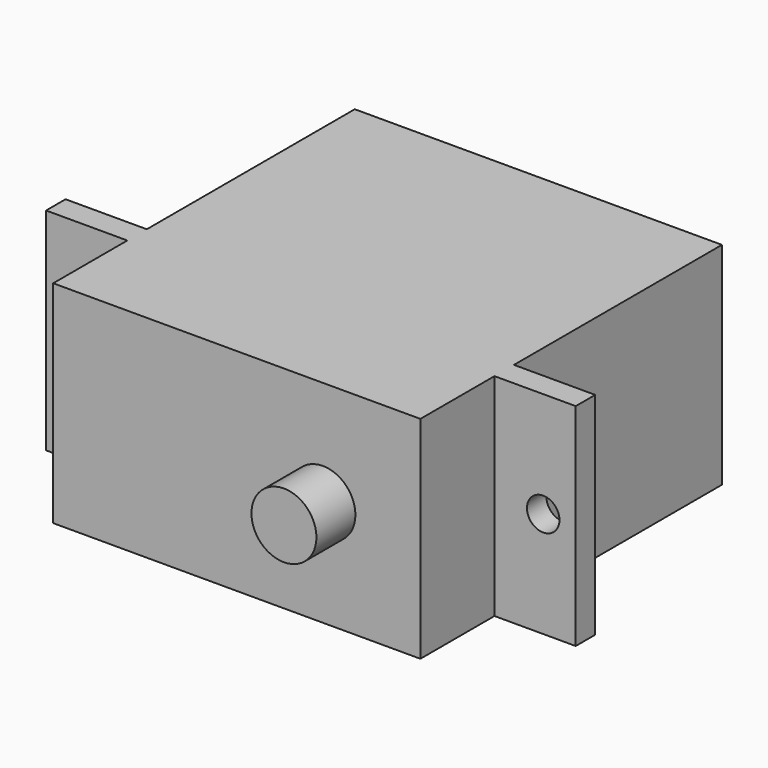
from build123d import *

# Parameters (mm, degrees)
F1_DEPTH = 13
F2_R     = 1
F3_DEPTH = 1.5
F4_R     = 2
F5_DEPTH = 3


with BuildPart() as f1:
    # F0 (on Top) → F1 (new body)
    with BuildSketch(Plane.XY):
        Polygon((-10.700272, 20.6891), (-33.300272, 20.6891), (-33.300272, 4.6891), (-38.300272, 4.6891), (-38.300272, 3.1891), (-33.300272, 3.1891), (-33.300272, -2.5109), (-10.700272, -2.5109), (-10.700272, 3.1891), (-5.700272, 3.1891), (-5.700272, 4.6891), (-10.700272, 4.6891), align=None)
    extrude(amount=F1_DEPTH)

    # F2 (on face) → F3 (cut, through all)
    with BuildSketch(Plane.XZ.offset(-3.1891)):
        with Locations((-36.300272, 6.5)):
            Circle(F2_R)
        with Locations((-7.700272, 6.5)):
            Circle(F2_R)
    extrude(amount=-F3_DEPTH, mode=Mode.SUBTRACT)

    # F4 (on face) → F5 (join)
    with BuildSketch(Plane.XZ.offset(2.5109)):
        with Locations((-16.700272, 6.5)):
            Circle(F4_R)
    extrude(amount=F5_DEPTH)


solid = f1.part
